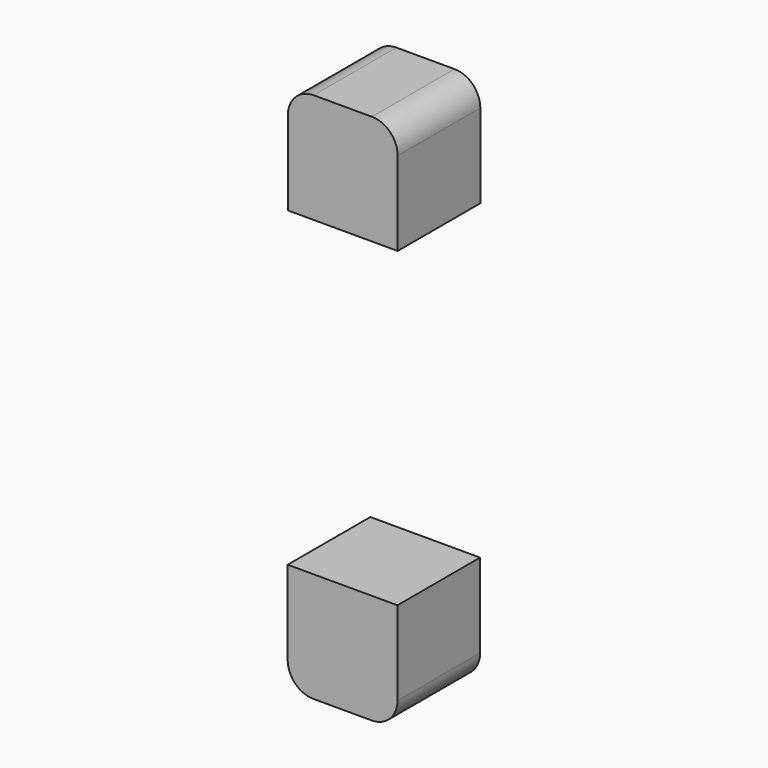
from build123d import *

# Parameters (mm, degrees)
F1_DEPTH = 25.4


with BuildPart() as f1:
    # F0 (on Front) → F1 (new body)
    with BuildSketch(Plane.XZ):
        with BuildLine():
            Line((-25.112574, 59.868169), (-39.412574, 59.868169))
            ThreePointArc((-39.412574, 59.868169), (-43.902702, 58.008297), (-45.762574, 53.518169))
            Line((-45.762574, 53.518169), (-45.762574, 32.868169))
            Line((-45.762574, 32.868169), (-18.762574, 32.868169))
            Line((-18.762574, 32.868169), (-18.762574, 53.518169))
            ThreePointArc((-18.762574, 53.518169), (-20.622446, 58.008297), (-25.112574, 59.868169))
        make_face()
        with BuildLine():
            Line((-39.466552, -70.850736), (-25.166552, -70.850736))
            ThreePointArc((-25.166552, -70.850736), (-20.676424, -68.990864), (-18.816552, -64.500736))
            Line((-18.816552, -64.500736), (-18.816552, -43.850736))
            Line((-18.816552, -43.850736), (-45.816552, -43.850736))
            Line((-45.816552, -43.850736), (-45.816552, -64.500736))
            ThreePointArc((-45.816552, -64.500736), (-43.95668, -68.990864), (-39.466552, -70.850736))
        make_face()
    extrude(amount=F1_DEPTH)


solid = f1.part
